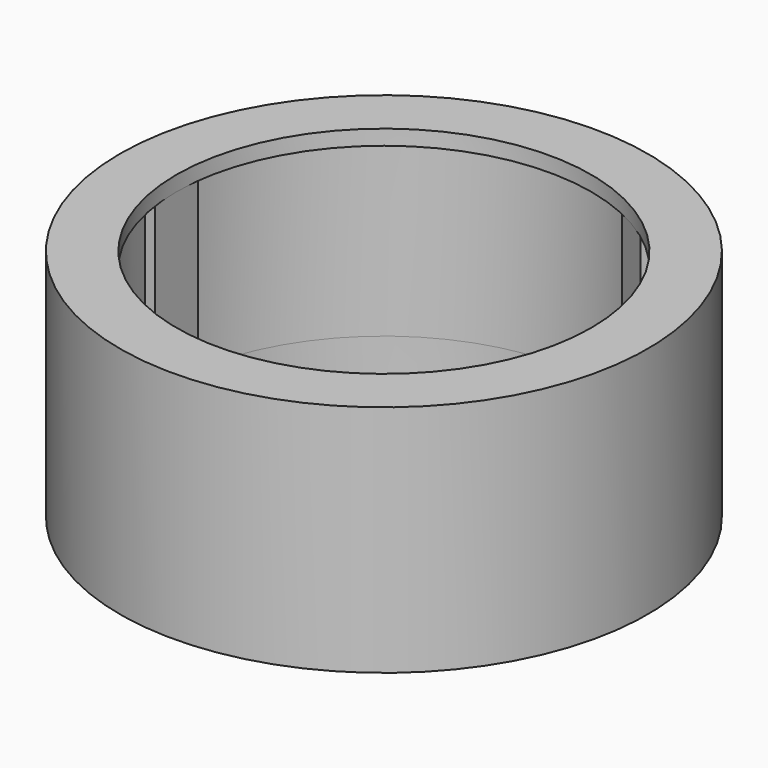
from build123d import *

# Parameters (mm, degrees)
SKETCH009_R             = 17.5
PAD008_DEPTH            = 11.5
CHAMFER_1_SIZE2         = 0.25
CHAMFER_1_SIZE          = 1.5
CHAMFER_2_SIZE2         = 0.25
CHAMFER_2_SIZE          = 1.5
CHAMFER_3_SIZE2         = 0.25
CHAMFER_3_SIZE          = 1.5
CHAMFER_4_SIZE2         = 0.25
CHAMFER_4_SIZE          = 1.5
SKETCH016_R             = 17.5
PAD012_DEPTH            = 3
CHAMFER003_1_SIZE2      = 0.25
CHAMFER003_1_SIZE       = 1.5
CHAMFER003_2_SIZE2      = 0.25
CHAMFER003_2_SIZE       = 1.5
SKETCH017_R             = 17.5
SKETCH017_R_2           = 13.75
PAD013_DEPTH            = 1
BODY001_PLACEMENT_ANGLE = 180


with BuildPart() as part:
    # Sketch009 → Pad008 (new body)
    with BuildSketch(Plane.XY.offset(20.75)):
        Circle(SKETCH009_R)
        with BuildLine():
            Line((-8.346636, 11.856798), (-8.000833, 11.257849))
            Line((-8.000833, 11.257849), (-5.749167, 12.557849))
            Line((-5.749167, 12.557849), (-6.09497, 13.156798))
            ThreePointArc((14.387842, 1.8), (7.031155, 12.681201), (-6.09497, 13.156798))
            Line((14.387842, 1.8), (13.75, 1.8))
            Line((13.75, 1.8), (13.75, -1.8))
            Line((14.387842, -1.8), (13.75, -1.8))
            ThreePointArc((-6.09497, -13.156798), (7.031155, -12.681201), (14.387842, -1.8))
            Line((-5.749167, -12.557849), (-6.09497, -13.156798))
            Line((-8.000833, -11.257849), (-5.749167, -12.557849))
            Line((-8.346636, -11.856798), (-8.000833, -11.257849))
            ThreePointArc((-8.346636, 11.856798), (-14.5, 0), (-8.346636, -11.856798))
        make_face(mode=Mode.SUBTRACT)
    extrude(amount=-PAD008_DEPTH)

    # Chamfer 1
    chamfer_1_edges = [part.edges().sort_by_distance(p)[0] for p in [
        (-8.173735, -11.557324, 9.25),
    ]]
    chamfer_1_side = part.faces().sort_by_distance((-8.173735, -11.557324, 15))[0]
    chamfer(chamfer_1_edges, length=CHAMFER_1_SIZE, length2=CHAMFER_1_SIZE2, reference=chamfer_1_side)

    # Chamfer 2
    chamfer_2_edges = [part.edges().sort_by_distance(p)[0] for p in [
        (-5.922069, -12.857324, 9.25),
    ]]
    chamfer_2_side = part.faces().sort_by_distance((-5.922069, -12.857324, 15))[0]
    chamfer(chamfer_2_edges, length=CHAMFER_2_SIZE, length2=CHAMFER_2_SIZE2, reference=chamfer_2_side)

    # Chamfer 3
    chamfer_3_edges = [part.edges().sort_by_distance(p)[0] for p in [
        (-8.173735, 11.557324, 9.25),
    ]]
    chamfer_3_side = part.faces().sort_by_distance((-8.173735, 11.557324, 15))[0]
    chamfer(chamfer_3_edges, length=CHAMFER_3_SIZE, length2=CHAMFER_3_SIZE2, reference=chamfer_3_side)

    # Chamfer 4
    chamfer_4_edges = [part.edges().sort_by_distance(p)[0] for p in [
        (-5.922069, 12.857324, 9.25),
    ]]
    chamfer_4_side = part.faces().sort_by_distance((-5.922069, 12.857324, 15))[0]
    chamfer(chamfer_4_edges, length=CHAMFER_4_SIZE, length2=CHAMFER_4_SIZE2, reference=chamfer_4_side)

    # Sketch016 → Pad012 (join)
    with BuildSketch(Plane.XY.offset(9.25)):
        Circle(SKETCH016_R)
        with BuildLine():
            Line((14.387842, 1.8), (13.75, 1.8))
            Line((13.75, 1.8), (13.75, -1.8))
            Line((14.387842, -1.8), (13.75, -1.8))
            ThreePointArc((14.387842, 1.8), (-14.5, 0), (14.387842, -1.8))
        make_face(mode=Mode.SUBTRACT)
    extrude(amount=-PAD012_DEPTH)

    # Chamfer003 1
    chamfer003_1_edges = [part.edges().sort_by_distance(p)[0] for p in [
        (14.068921, -1.8, 6.25),
    ]]
    chamfer003_1_side = part.faces().sort_by_distance((14.068921, -1.8, 7.75))[0]
    chamfer(chamfer003_1_edges, length=CHAMFER003_1_SIZE, length2=CHAMFER003_1_SIZE2, reference=chamfer003_1_side)

    # Chamfer003 2
    chamfer003_2_edges = [part.edges().sort_by_distance(p)[0] for p in [
        (14.068921, 1.8, 6.25),
    ]]
    chamfer003_2_side = part.faces().sort_by_distance((14.068921, 1.8, 7.75))[0]
    chamfer(chamfer003_2_edges, length=CHAMFER003_2_SIZE, length2=CHAMFER003_2_SIZE2, reference=chamfer003_2_side)

    # Sketch017 → Pad013 (join)
    with BuildSketch(Plane.XY.offset(20.75)):
        Circle(SKETCH017_R)
        Circle(SKETCH017_R_2, mode=Mode.SUBTRACT)
    extrude(amount=PAD013_DEPTH)


with BuildPart() as part_1:
    # Body001 placement: moved
    add(part.part.moved(Location((0, 0, 0.13))).rotate(Axis((0, 0, 0.13), (0, 0, 1)), BODY001_PLACEMENT_ANGLE))


solid = part_1.part
